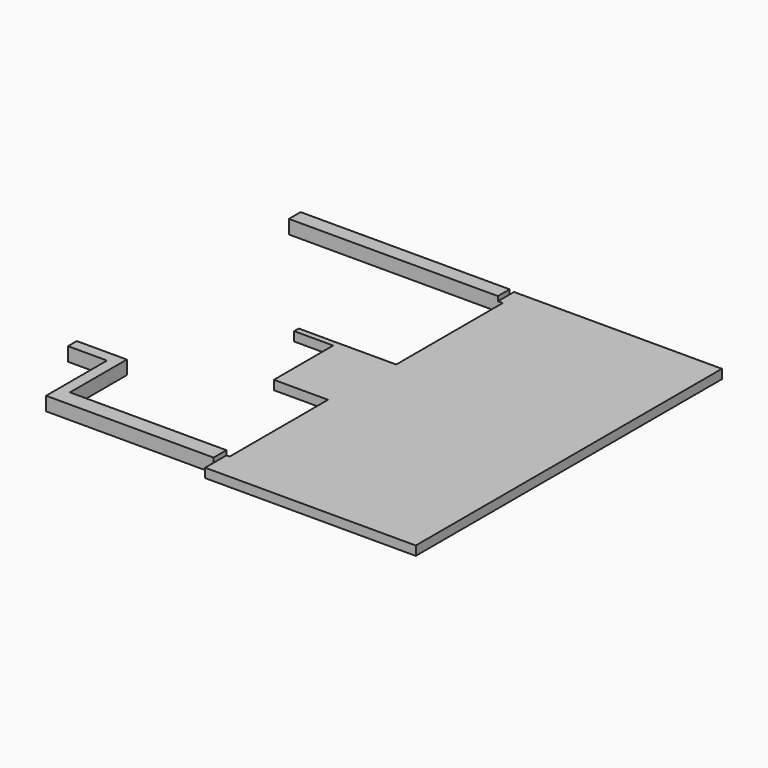
from build123d import *

# Parameters (mm, degrees)
F1_DEPTH = 200
F2_W     = 4555
F2_H     = 320
F3_DEPTH = 100


with BuildPart() as f1:
    # F0 (on Top) → F1 (new body)
    with BuildSketch(Plane.XY):
        Polygon((-4088.868618, -2870), (-4088.868618, -3110), (-3238.868618, -3110), (-3238.868618, -4770), (411.131382, -4770), (411.131382, -5000), (5001.131382, -5000), (5001.131382, 3340), (575.25748, 3340), (471.13148, 3340), (471.13148, 3220), (-4083.86852, 3220), (-4083.86852, 2900), (575.25748, 2900), (575.25748, 0), (-1548.868618, 0), (-1548.868618, -124.041), (-698.868618, -124.041), (-698.868618, -1740), (481.131382, -1740), (481.131382, -4420), (-2998.868618, -4420), (-2998.868618, -2870), align=None)
    extrude(amount=F1_DEPTH)

    # F2 (on face) → F3 (join)
    with BuildSketch(Plane.XY.offset(200)):
        Polygon((-2998.868618, -2870), (-4088.868618, -2870), (-4088.868618, -3110), (-3238.868618, -3110), (-3238.868618, -4770), (411.131382, -4770), (411.131382, -4420), (-2998.868618, -4420), align=None)
        with Locations((-1806.36852, 3060)):
            Rectangle(F2_W, F2_H)
    extrude(amount=F3_DEPTH)


solid = f1.part
